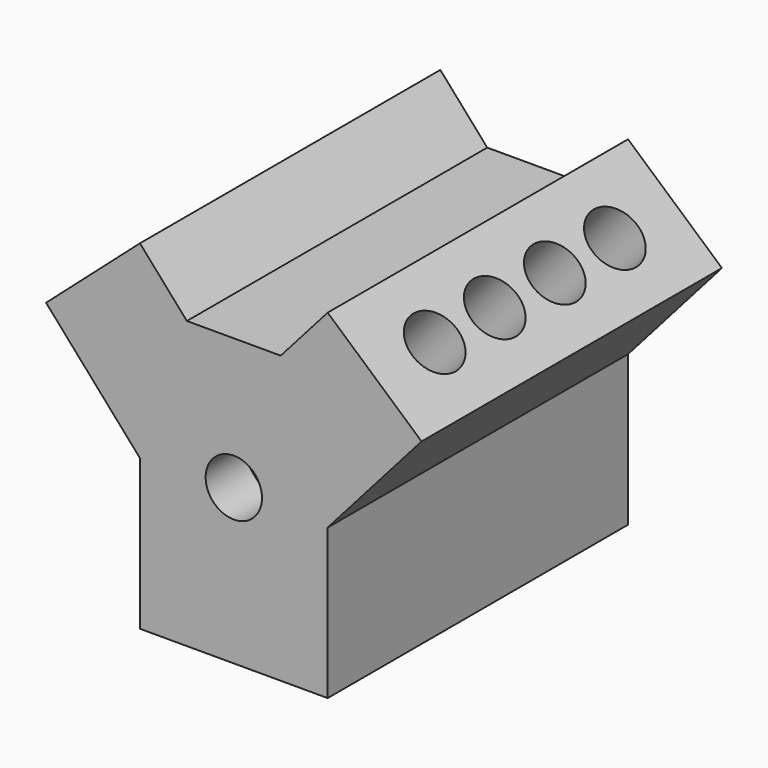
from build123d import *

# Parameters (mm, degrees)
F0_R     = 15
F1_DEPTH = 200
F2_R     = 15
F3_DEPTH = 115
F4_R     = 15
F5_DEPTH = 115


with BuildPart() as f1:
    # F0 (on Front) → F1 (new body)
    with BuildSketch(Plane.XZ):
        Polygon((-63.9481977851, 33.88369316), (-63.9481977851, -46.11630684), (-13.9481977851, -46.11630684), (36.0518022149, -46.11630684), (36.0518022149, 33.88369316), (86.0518022149, 90.5135241436), (36.0518022149, 134.6598681566), (11.0518022149, 106.3449526648), (-13.9481977851, 106.3449526648), (-22.7930882598, 106.3449526648), (-38.9481977851, 106.3449526648), (-63.9481977851, 134.6598681566), (-113.9481977851, 90.5135241436), align=None)
        with Locations((-13.9481977851, 36.3449526648)):
            Circle(F0_R, mode=Mode.SUBTRACT)
    extrude(amount=F1_DEPTH)

    # F2 (on face) → F3 (cut)
    with BuildSketch(Plane(origin=(-94.8247196978, 0, 107.398156991), x_dir=(0.7496243711, 0, 0.6618635073), z_dir=(-0.6618635073, 0, 0.7496243711))):
        with Locations((7.8392524502, -40)):
            Circle(F2_R)
        with Locations((7.8392524502, -80)):
            Circle(F2_R)
        with Locations((7.8392524502, -160)):
            Circle(F2_R)
        with Locations((7.8392524502, -120)):
            Circle(F2_R)
    extrude(amount=-F3_DEPTH, mode=Mode.SUBTRACT)

    # F4 (on face) → F5 (cut)
    with BuildSketch(Plane(origin=(82.6043325318, 0, 93.5573877957), x_dir=(0.7496243711, 0, -0.6618635073), z_dir=(0.6618635073, 0, 0.7496243711))):
        with Locations((-28.7511067527, -160)):
            Circle(F4_R)
        with Locations((-28.7511067527, -120)):
            Circle(F4_R)
        with Locations((-28.7511067527, -80)):
            Circle(F4_R)
        with Locations((-28.7511067527, -40)):
            Circle(F4_R)
    extrude(amount=-F5_DEPTH, mode=Mode.SUBTRACT)


solid = f1.part
